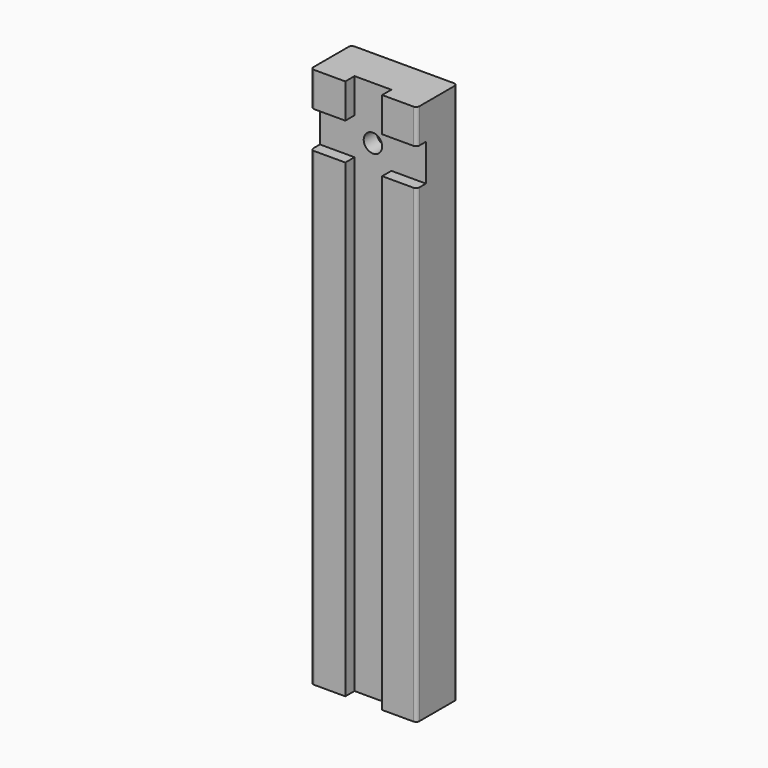
from build123d import *

# Parameters (mm, degrees)
F0_W      = 46
F0_H      = 22
F1_DEPTH  = 235
F2_R      = 1.5
F3_W      = 3.5
F3_H      = 16
F3_W_2    = 1.5
F4_DEPTH  = 46.001
F5_W      = 16
F5_H      = 5
F6_DEPTH  = 235.001
F7_R      = 4
F8_DEPTH  = 17.001
F9_R      = 7
F9_R_2    = 4
F10_DEPTH = 10


with BuildPart() as f1:
    # F0 (on Top) → F1 (new body)
    with BuildSketch(Plane.XY):
        with Locations((23, 11)):
            Rectangle(F0_W, F0_H)
    extrude(amount=F1_DEPTH)

    # F2
    f2_edges = [f1.edges().sort_by_distance(p)[0] for p in [
        (46, 0, 117.5),
        (46, 22, 117.5),
        (0, 0, 117.5),
        (0, 22, 117.5),
    ]]
    fillet(f2_edges, radius=F2_R)

    # F3 (on face) → F4 (cut, through all)
    with BuildSketch(Plane(origin=(0, 0, 0), x_dir=(0, -1, 0), z_dir=(-1, 0, 0))):
        with Locations((-3.25, 212)):
            Rectangle(F3_W, F3_H)
        with Locations((-0.75, 212)):
            Rectangle(F3_W_2, F3_H)
    extrude(amount=-F4_DEPTH, mode=Mode.SUBTRACT)

    # F5 (on face) → F6 (cut, through all)
    with BuildSketch(Plane.XY.offset(235)):
        with Locations((23, 2.5)):
            Rectangle(F5_W, F5_H)
    extrude(amount=-F6_DEPTH, mode=Mode.SUBTRACT)

    # F7 (on face) → F8 (cut, through all)
    with BuildSketch(Plane.XZ.offset(-5)):
        with Locations((23, 212)):
            Circle(F7_R)
    extrude(amount=-F8_DEPTH, mode=Mode.SUBTRACT)

    # F9 (on face) → F10 (cut)
    with BuildSketch(Plane(origin=(0, 22, 0), x_dir=(-1, 0, 0), z_dir=(0, 1, 0))):
        with Locations((-23, 212)):
            Circle(F9_R)
        with Locations((-23, 212)):
            Circle(F9_R_2, mode=Mode.SUBTRACT)
    extrude(amount=-F10_DEPTH, mode=Mode.SUBTRACT)


solid = f1.part
